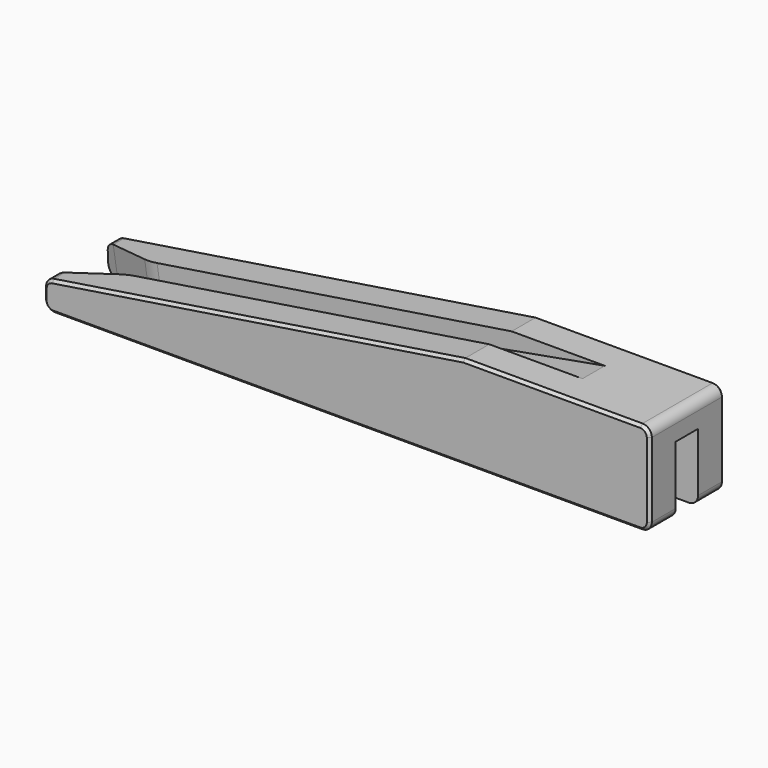
from build123d import *

# Parameters (mm, degrees)
F1_DEPTH  = 10
F2_W      = 3
F2_H      = 7.3
F3_DEPTH  = 25.001
F5_DEPTH  = 10.001
F6_R      = 1
F8_DEPTH  = 1.5
F10_DEPTH = 25
F11_R     = 5
F12_SIZE  = 0.3


with BuildPart() as f1:
    # F0 (on Top) → F1 (new body)
    with BuildSketch(Plane.XY):
        Polygon((-40, 5), (-40, 1.5), (0, 1.5), (0, 0), (0, -1.5), (-40, -1.5), (-40, -5), (25, -5), (25, 0), (25, 5), align=None)
    extrude(amount=F1_DEPTH)

    # F2 (on face) → F3 (cut, through all)
    with BuildSketch(Plane(origin=(0, 0, 0), x_dir=(0, -1, 0), z_dir=(-1, 0, 0))):
        with Locations((0, 3.65)):
            Rectangle(F2_W, F2_H)
    extrude(amount=-F3_DEPTH, mode=Mode.SUBTRACT)

    # F4 (on face) → F5 (cut, through all)
    with BuildSketch(Plane.XZ.offset(5)):
        Polygon((-40, 10), (-40, 3), (5, 10), align=None)
    extrude(amount=-F5_DEPTH, mode=Mode.SUBTRACT)

    # F6
    f6_edges = [f1.edges().sort_by_distance(p)[0] for p in [
        (25, -3.25, 0),
        (25, 3.25, 0),
        (-40, -3.25, 0),
        (-40, 3.25, 0),
        (-40, -3.25, 3),
        (-40, 3.25, 3),
        (25, 0, 10),
    ]]
    fillet(f6_edges, radius=F6_R)

    # F7 (on Front) → F8 (cut, symmetric)
    with BuildSketch(Plane.XZ):
        Polygon((0, 10), (0, 7.3), (15, 10), align=None)
    extrude(amount=F8_DEPTH, both=True, mode=Mode.SUBTRACT)

    # F9 (on face) → F10 (cut)
    with BuildSketch(Plane(origin=(-1.4006750241, 0, 9.0043394407), x_dir=(0.988116469, 0, 0.1537070063), z_dir=(-0.1537070063, 0, 0.988116469))):
        Polygon((-28.2070668472, 0), (-38.2070668472, 3.25), (-47.1767681407, 6.1651529204), (-46.7135751583, -6.0146152011), (-38.2070668472, -3.25), align=None)
    extrude(amount=-F10_DEPTH, mode=Mode.SUBTRACT)

    # F11
    f11_edges = [f1.edges().sort_by_distance(p)[0] for p in [
        (-33.525134, 1.5, 1.979649),
        (-33.525134, -1.5, 1.979649),
    ]]
    fillet(f11_edges, radius=F11_R)

    # F12
    f12_edges = [f1.edges().sort_by_distance(p)[0] for p in [
        (-7.5, 5, 0),
        (24.707107, 5, 0.292893),
        (-39.707107, 5, 0.292893),
        (25, 5, 5),
        (-40, 5, 1.571765),
        (24.707107, 5, 9.707107),
        (-39.759509, 5, 2.794026),
        (14.5, 5, 10),
        (-17.076854, 5, 6.565823),
        (-7.5, -5, 0),
        (-39.707107, -5, 0.292893),
        (24.707107, -5, 0.292893),
        (-40, -5, 1.571765),
        (25, -5, 5),
        (-39.759509, -5, 2.794026),
        (24.707107, -5, 9.707107),
        (-17.076854, -5, 6.565823),
        (14.5, -5, 10),
    ]]
    chamfer(f12_edges, length=F12_SIZE)


solid = f1.part
